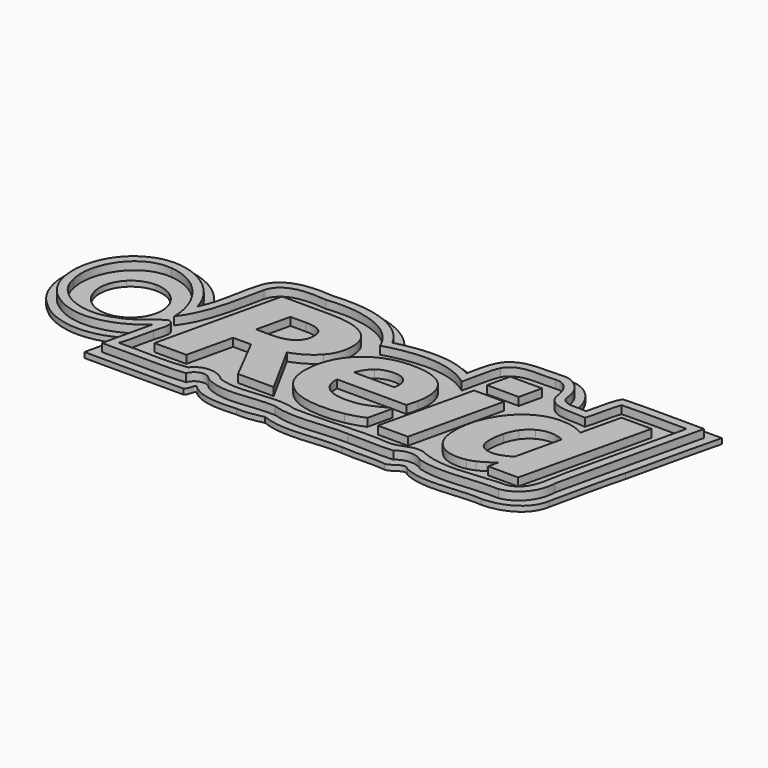
from build123d import *

# Parameters (mm, degrees)
F1_DEPTH = 127
F2_DEPTH = 50.8


with BuildPart() as f1:
    # F0 (on Top) → F1 (new body)
    with BuildSketch(Plane.XY):
        with BuildLine():
            add(Edge.make_bspline(
                [(-252.9550948, 272.1099206), (-252.9550948, 177.3891804), (-281.7946612, 97.749614), (-339.473794, 33.1912214)],
                knots=[0, 0, 0, 0, 1, 1, 1, 1], degree=3))
            add(Edge.make_bspline(
                [(-371.223794, 495.9475222), (-292.378003, 447.2641804), (-252.9550948, 372.651655), (-252.9550948, 272.1099206)],
                knots=[0, 0, 0, 0, 1, 1, 1, 1], degree=3))
            add(Edge.make_bspline(
                [(-706.1863956, 569.7662214), (-561.723794, 569.7662214), (-450.069585, 545.1599968), (-371.223794, 495.9475222)],
                knots=[0, 0, 0, 0, 1, 1, 1, 1], degree=3))
            Line((-706.1863956, 569.7662214), (-1167.3550948, 569.7662214))
            Line((-1167.3550948, 569.7662214), (-1440.4050948, -612.1274778))
            Line((-1440.4050948, -612.1274778), (-1135.6050948, -612.1274778))
            Line((-1135.6050948, -612.1274778), (-1035.5924932, -178.7400794))
            Line((-1035.5924932, -178.7400794), (-864.1424932, -178.7400794))
            Line((-864.1424932, -178.7400794), (-641.8924932, -612.1274778))
            Line((-641.8924932, -612.1274778), (-301.373794, -612.1274778))
            Line((-301.373794, -612.1274778), (-574.423794, -112.8587786))
            add(Edge.make_bspline(
                [(-339.473794, 33.1912214), (-397.1529268, -31.3670442), (-475.469585, -80.050386), (-574.423794, -112.8587786)],
                knots=[0, 0, 0, 0, 1, 1, 1, 1], degree=3))
        make_face()
        with BuildLine():
            add(Edge.make_bspline(
                [(-581.5674932, 221.3099206), (-581.5674932, 268.9349968), (-596.9133604, 302.5370886), (-627.6050948, 322.1162214)],
                knots=[0, 0, 0, 0, 1, 1, 1, 1], degree=3))
            add(Edge.make_bspline(
                [(-648.2424932, 83.1975222), (-603.7924932, 116.5350476), (-581.5674932, 162.5725222), (-581.5674932, 221.3099206)],
                knots=[0, 0, 0, 0, 1, 1, 1, 1], degree=3))
            add(Edge.make_bspline(
                [(-836.3613956, 33.9849206), (-755.398794, 33.9849206), (-692.6924932, 50.3891296), (-648.2424932, 83.1975222)],
                knots=[0, 0, 0, 0, 1, 1, 1, 1], degree=3))
            Line((-836.3613956, 33.9849206), (-986.3800948, 33.9849206))
            Line((-986.3800948, 33.9849206), (-912.5613956, 352.278823))
            Line((-912.5613956, 352.278823), (-761.748794, 352.278823))
            add(Edge.make_bspline(
                [(-627.6050948, 322.1162214), (-657.7675694, 342.224614), (-702.4821358, 352.278823), (-761.748794, 352.278823)],
                knots=[0, 0, 0, 0, 1, 1, 1, 1], degree=3))
        make_face(mode=Mode.SUBTRACT)
    extrude(amount=F1_DEPTH)



with BuildPart() as f1b:
    # F0 (on Top) → F1, piece 2 (new body)
    with BuildSketch(Plane.XY):
        with BuildLine():
            add(Edge.make_bspline(
                [(184.2049148, -635.9400794), (32.3340476, -635.9400794), (-84.876386, -602.3379876), (-167.426386, -535.1337786)],
                knots=[0, 0, 0, 0, 1, 1, 1, 1], degree=3))
            add(Edge.make_bspline(
                [(380.2610124, -616.8900794), (318.8776706, -629.5900794), (253.525655, -635.9400794), (184.2049148, -635.9400794)],
                knots=[0, 0, 0, 0, 1, 1, 1, 1], degree=3))
            add(Edge.make_bspline(
                [(555.6799148, -562.121177), (500.1173132, -586.4629114), (441.6443542, -604.7192122), (380.2610124, -616.8900794)],
                knots=[0, 0, 0, 0, 1, 1, 1, 1], degree=3))
            Line((555.6799148, -562.121177), (608.8610124, -332.7274778))
            Line((608.8610124, -332.7274778), (577.1110124, -332.7274778))
            add(Edge.make_bspline(
                [(431.0610124, -403.371177), (487.1527468, -382.2045188), (535.8360886, -358.6566106), (577.1110124, -332.7274778)],
                knots=[0, 0, 0, 0, 1, 1, 1, 1], degree=3))
            add(Edge.make_bspline(
                [(254.0549148, -435.121177), (316.4965222, -435.121177), (375.4985378, -424.5378352), (431.0610124, -403.371177)],
                knots=[0, 0, 0, 0, 1, 1, 1, 1], degree=3))
            add(Edge.make_bspline(
                [(54.823614, -382.7337786), (98.2152214, -417.6587024), (164.625655, -435.121177), (254.0549148, -435.121177)],
                knots=[0, 0, 0, 0, 1, 1, 1, 1], degree=3))
            add(Edge.make_bspline(
                [(-10.2639876, -237.4774778), (-10.2639876, -299.3899524), (11.4318796, -347.8087024), (54.823614, -382.7337786)],
                knots=[0, 0, 0, 0, 1, 1, 1, 1], degree=3))
            add(Edge.make_bspline(
                [(-10.2639876, -228.746177), (-10.2639876, -231.3921204), (-10.2639876, -234.302554), (-10.2639876, -237.4774778)],
                knots=[0, 0, 0, 0, 1, 1, 1, 1], degree=3))
            add(Edge.make_bspline(
                [(-10.2639876, -219.221177), (-10.2639876, -222.3962532), (-10.2639876, -225.5712532), (-10.2639876, -228.746177)],
                knots=[0, 0, 0, 0, 1, 1, 1, 1], degree=3))
            Line((-10.2639876, -219.221177), (651.723614, -219.221177))
            add(Edge.make_bspline(
                [(679.5049148, -116.8274778), (672.625655, -151.2232688), (663.3652214, -185.3545188), (651.723614, -219.221177)],
                knots=[0, 0, 0, 0, 1, 1, 1, 1], degree=3))
            add(Edge.make_bspline(
                [(690.6173132, -11.2587786), (690.6173132, -47.2421204), (686.9131804, -82.4316868), (679.5049148, -116.8274778)],
                knots=[0, 0, 0, 0, 1, 1, 1, 1], degree=3))
            add(Edge.make_bspline(
                [(589.0173132, 226.0725222), (656.750655, 172.6267312), (690.6173132, 93.5162976), (690.6173132, -11.2587786)],
                knots=[0, 0, 0, 0, 1, 1, 1, 1], degree=3))
            add(Edge.make_bspline(
                [(288.9799148, 307.0349206), (421.800655, 307.0349206), (521.8131042, 280.047446), (589.0173132, 226.0725222)],
                knots=[0, 0, 0, 0, 1, 1, 1, 1], degree=3))
            add(Edge.make_bspline(
                [(48.473614, 263.378823), (121.4985378, 292.4828796), (201.6673132, 307.0349206), (288.9799148, 307.0349206)],
                knots=[0, 0, 0, 0, 1, 1, 1, 1], degree=3))
            add(Edge.make_bspline(
                [(-134.0889876, 145.1099206), (-85.4056458, 194.851655), (-24.5514622, 234.274614), (48.473614, 263.378823)],
                knots=[0, 0, 0, 0, 1, 1, 1, 1], degree=3))
            add(Edge.make_bspline(
                [(-250.7700852, -33.4837786), (-223.7826868, 34.2495632), (-184.8889876, 93.7807878), (-134.0889876, 145.1099206)],
                knots=[0, 0, 0, 0, 1, 1, 1, 1], degree=3))
            add(Edge.make_bspline(
                [(-291.251386, -256.5274778), (-291.251386, -175.5650032), (-277.7576106, -101.2171204), (-250.7700852, -33.4837786)],
                knots=[0, 0, 0, 0, 1, 1, 1, 1], degree=3))
            add(Edge.make_bspline(
                [(-167.426386, -535.1337786), (-249.976386, -467.9295696), (-291.251386, -375.0608196), (-291.251386, -256.5274778)],
                knots=[0, 0, 0, 0, 1, 1, 1, 1], degree=3))
        make_face()
        with BuildLine():
            add(Edge.make_bspline(
                [(402.4860124, -51.7400794), (404.0735378, -42.2150032), (405.1318796, -33.4837024), (405.6610124, -25.546177)],
                knots=[0, 0, 0, 0, 1, 1, 1, 1], degree=3))
            Line((402.4860124, -51.7400794), (402.4854028, -51.7400794))
            Line((402.4854028, -51.7400794), (17.5167036, -51.7400794))
            add(Edge.make_bspline(
                [(108.0043052, 80.8162214), (68.3167798, 49.0662214), (38.154229, 4.8807878), (17.5167036, -51.7400794)],
                knots=[0, 0, 0, 0, 1, 1, 1, 1], degree=3))
            add(Edge.make_bspline(
                [(256.4354028, 128.4412214), (197.6980044, 128.4412214), (148.2209634, 112.5662214), (108.0043052, 80.8162214)],
                knots=[0, 0, 0, 0, 1, 1, 1, 1], degree=3))
            add(Edge.make_bspline(
                [(368.3543052, 95.103823), (342.4250454, 117.3287468), (305.1187446, 128.4412214), (256.4354028, 128.4412214)],
                knots=[0, 0, 0, 0, 1, 1, 1, 1], degree=3))
            add(Edge.make_bspline(
                [(407.2480044, -0.9400794), (407.2480044, 40.8641296), (394.283438, 72.8787468), (368.3543052, 95.103823)],
                knots=[0, 0, 0, 0, 1, 1, 1, 1], degree=3))
            add(Edge.make_bspline(
                [(405.6610124, -25.546177), (406.7189986, -17.6087786), (407.2480044, -9.4067376), (407.2480044, -0.9400794)],
                knots=[0, 0, 0, 0, 1, 1, 1, 1], degree=3))
        make_face(mode=Mode.SUBTRACT)
    extrude(amount=F1_DEPTH)


with BuildPart() as f1c:
    # F0 (on Top) → F1, piece 3 (new body)
    with BuildSketch(Plane.XY):
        Polygon((981.5157916, -612.1274778), (1187.8907916, 279.253823), (900.55319, 279.253823), (694.17819, -612.1274778), align=None)
    extrude(amount=F1_DEPTH)


with BuildPart() as f1d:
    # F0 (on Top) → F1, piece 4 (new body)
    with BuildSketch(Plane.XY):
        Polygon((1225.1970924, 406.253823), (1275.20319, 622.9475222), (971.9907916, 622.9475222), (921.9844908, 406.253823), align=None)
    extrude(amount=F1_DEPTH)


with BuildPart() as f1e:
    # F0 (on Top) → F1, piece 5 (new body)
    with BuildSketch(Plane.XY):
        with BuildLine():
            add(Edge.make_bspline(
                [(1769.3979852, -519.2587786), (1741.881327, -536.7212532), (1717.5396434, -552.5962532), (1696.3729852, -566.8837786)],
                knots=[0, 0, 0, 0, 1, 1, 1, 1], degree=3))
            Line((1769.3979852, -519.2587786), (1747.9668876, -612.1274778))
            Line((1747.9668876, -612.1274778), (2035.304286, -612.1274778))
            Line((2035.304286, -612.1274778), (2321.054286, 622.9475222))
            Line((2321.054286, 622.9475222), (2033.7168876, 622.9475222))
            Line((2033.7168876, 622.9475222), (1945.6105868, 243.5349206))
            add(Edge.make_bspline(
                [(1834.4855868, 288.778823), (1870.4689286, 279.2537468), (1907.5105868, 264.172446), (1945.6105868, 243.5349206)],
                knots=[0, 0, 0, 0, 1, 1, 1, 1], degree=3))
            add(Edge.make_bspline(
                [(1707.4855868, 303.8599206), (1756.1689286, 303.8599206), (1798.502245, 298.8328796), (1834.4855868, 288.778823)],
                knots=[0, 0, 0, 0, 1, 1, 1, 1], degree=3))
            add(Edge.make_bspline(
                [(1508.254286, 254.6475222), (1571.754286, 287.4557878), (1638.1647196, 303.8599206), (1707.4855868, 303.8599206)],
                knots=[0, 0, 0, 0, 1, 1, 1, 1], degree=3))
            add(Edge.make_bspline(
                [(1343.154286, 122.0912214), (1389.7209442, 177.653696), (1444.754286, 221.8391296), (1508.254286, 254.6475222)],
                knots=[0, 0, 0, 0, 1, 1, 1, 1], degree=3))
            add(Edge.make_bspline(
                [(1230.4418876, -75.5524778), (1257.9585458, -0.9400032), (1295.5293622, 64.9412214), (1343.154286, 122.0912214)],
                knots=[0, 0, 0, 0, 1, 1, 1, 1], degree=3))
            add(Edge.make_bspline(
                [(1189.9605868, -313.6774778), (1189.9605868, -229.0108196), (1203.4543622, -149.6358196), (1230.4418876, -75.5524778)],
                knots=[0, 0, 0, 0, 1, 1, 1, 1], degree=3))
            add(Edge.make_bspline(
                [(1266.954286, -552.596177), (1215.6251532, -496.5045696), (1189.9605868, -416.8650032), (1189.9605868, -313.6774778)],
                knots=[0, 0, 0, 0, 1, 1, 1, 1], degree=3))
            add(Edge.make_bspline(
                [(1474.1229852, -636.7337786), (1387.8689286, -636.7337786), (1318.8126786, -608.6879114), (1266.954286, -552.596177)],
                knots=[0, 0, 0, 0, 1, 1, 1, 1], degree=3))
            add(Edge.make_bspline(
                [(1556.6729852, -628.796177), (1533.9189286, -634.0879114), (1506.402245, -636.7337786), (1474.1229852, -636.7337786)],
                knots=[0, 0, 0, 0, 1, 1, 1, 1], degree=3))
            add(Edge.make_bspline(
                [(1627.3168876, -604.9837786), (1603.504286, -615.5671204), (1579.956327, -623.5045696), (1556.6729852, -628.796177)],
                knots=[0, 0, 0, 0, 1, 1, 1, 1], degree=3))
            add(Edge.make_bspline(
                [(1696.3729852, -566.8837786), (1675.7355868, -580.6420442), (1652.7168876, -593.3420442), (1627.3168876, -604.9837786)],
                knots=[0, 0, 0, 0, 1, 1, 1, 1], degree=3))
        make_face()
        with BuildLine():
            add(Edge.make_bspline(
                [(1905.9229852, 71.2912214), (1890.5771942, 78.699614), (1870.4688524, 85.3141804), (1845.5979852, 91.1349206)],
                knots=[0, 0, 0, 0, 1, 1, 1, 1], degree=3))
            Line((1905.9229852, 71.2912214), (1805.1168876, -366.0650794))
            add(Edge.make_bspline(
                [(1722.5668876, -407.3400794), (1751.6709442, -395.698345), (1779.1876278, -381.9400032), (1805.1168876, -366.0650794)],
                knots=[0, 0, 0, 0, 1, 1, 1, 1], degree=3))
            add(Edge.make_bspline(
                [(1640.8105868, -424.8024778), (1666.7397196, -424.8024778), (1693.9918114, -418.9816868), (1722.5668876, -407.3400794)],
                knots=[0, 0, 0, 0, 1, 1, 1, 1], degree=3))
            add(Edge.make_bspline(
                [(1527.304286, -388.2900794), (1552.1751532, -412.6316868), (1590.0105868, -424.8024778), (1640.8105868, -424.8024778)],
                knots=[0, 0, 0, 0, 1, 1, 1, 1], degree=3))
            add(Edge.make_bspline(
                [(1489.9979852, -271.6087786), (1489.9979852, -325.0545696), (1502.4334188, -363.948345), (1527.304286, -388.2900794)],
                knots=[0, 0, 0, 0, 1, 1, 1, 1], degree=3))
            add(Edge.make_bspline(
                [(1509.8418876, -131.9087786), (1496.6126278, -180.0629876), (1489.9979852, -226.6296458), (1489.9979852, -271.6087786)],
                knots=[0, 0, 0, 0, 1, 1, 1, 1], degree=3))
            add(Edge.make_bspline(
                [(1563.8168876, -12.0524778), (1541.0626786, -43.273345), (1523.0710204, -83.2254368), (1509.8418876, -131.9087786)],
                knots=[0, 0, 0, 0, 1, 1, 1, 1], degree=3))
            add(Edge.make_bspline(
                [(1656.6855868, 70.4975222), (1620.1731122, 50.3891296), (1589.2168876, 22.872446), (1563.8168876, -12.0524778)],
                knots=[0, 0, 0, 0, 1, 1, 1, 1], degree=3))
            add(Edge.make_bspline(
                [(1779.7168876, 100.6599206), (1734.208495, 100.6599206), (1693.1980614, 90.6057878), (1656.6855868, 70.4975222)],
                knots=[0, 0, 0, 0, 1, 1, 1, 1], degree=3))
            add(Edge.make_bspline(
                [(1845.5979852, 91.1349206), (1820.727245, 97.4849206), (1798.7668876, 100.6599206), (1779.7168876, 100.6599206)],
                knots=[0, 0, 0, 0, 1, 1, 1, 1], degree=3))
        make_face(mode=Mode.SUBTRACT)
    extrude(amount=F1_DEPTH)


with BuildPart() as f1f:
    # F0 (on Top) → F1, piece 6 (new body)
    with BuildSketch(Plane.XY):
        with BuildLine():
            add(Edge.make_bspline(
                [(1511.8568188, 639.2069766), (1506.6878172, 758.1173814), (1400.7673788, 882.506871), (1275.5971948, 877.8875254)],
                knots=[0, 0, 0, 0, 1, 1, 1, 1], degree=3))
            add(Edge.make_bspline(
                [(1275.5971948, 877.8875254), (1106.3161516, 862.6526054), (866.64419, 911.858095), (763.0727436, 737.5525254)],
                knots=[0, 0, 0, 0, 1, 1, 1, 1], degree=3))
            add(Edge.make_bspline(
                [(763.0727436, 737.5525254), (718.142582, 651.416655), (704.4229244, 553.888783), (683.5390444, 460.1766006)],
                knots=[0, 0, 0, 0, 1, 1, 1, 1], degree=3))
            add(Edge.make_bspline(
                [(683.5390444, 460.1766006), (457.4392172, 589.4109878), (182.4324012, 561.682519), (-57.2281812, 501.015127)],
                knots=[0, 0, 0, 0, 1, 1, 1, 1], degree=3))
            add(Edge.make_bspline(
                [(-57.2281812, 501.015127), (-211.3072228, 790.8203894), (-579.8831684, 840.8657046), (-874.39373, 814.1495782)],
                knots=[0, 0, 0, 0, 1, 1, 1, 1], degree=3))
            add(Edge.make_bspline(
                [(-874.39373, 814.1495782), (-1062.7548468, 833.9341462), (-1342.8934788, 826.7810998), (-1410.0955796, 608.5284502)],
                knots=[0, 0, 0, 0, 1, 1, 1, 1], degree=3))
            add(Edge.make_bspline(
                [(-1410.0955796, 608.5284502), (-1468.7762852, 424.1429414), (-1469.3027764, 223.6863446), (-1559.4000308, 48.5775254)],
                knots=[0, 0, 0, 0, 1, 1, 1, 1], degree=3))
            add(Edge.make_bspline(
                [(-1559.4000308, 48.5775254), (-1645.798842, 382.1971782), (-2060.021026, 614.1733462), (-2371.049106, 431.8795782)],
                knots=[0, 0, 0, 0, 1, 1, 1, 1], degree=3))
            add(Edge.make_bspline(
                [(-2371.049106, 431.8795782), (-2704.9154436, 251.3979478), (-2762.4568068, -308.244113), (-2417.3642788, -507.960249)],
                knots=[0, 0, 0, 0, 1, 1, 1, 1], degree=3))
            add(Edge.make_bspline(
                [(-2417.3642788, -507.960249), (-2173.6699732, -666.4914026), (-1843.3791428, -575.3045898), (-1639.0924292, -388.1435722)],
                knots=[0, 0, 0, 0, 1, 1, 1, 1], degree=3))
            add(Edge.make_bspline(
                [(-1639.0924292, -388.1435722), (-1675.0846356, -544.0371898), (-1711.0855796, -699.9285722), (-1747.0822564, -855.8211738)],
                knots=[0, 0, 0, 0, 1, 1, 1, 1], degree=3))
            add(Edge.make_bspline(
                [(-1747.0822564, -855.8211738), (-1483.5206804, -848.9973114), (-1203.7782884, -870.659041), (-950.4746548, -844.9070986)],
                knots=[0, 0, 0, 0, 1, 1, 1, 1], degree=3))
            add(Edge.make_bspline(
                [(-950.4746548, -844.9070986), (-925.5968788, -767.0469546), (-816.347618, -739.023033), (-766.1659556, -809.3470986)],
                knots=[0, 0, 0, 0, 1, 1, 1, 1], degree=3))
            add(Edge.make_bspline(
                [(-766.1659556, -809.3470986), (-561.38445, -928.1217658), (-323.0314596, -830.8507386), (-103.9800308, -844.1530234)],
                knots=[0, 0, 0, 0, 1, 1, 1, 1], degree=3))
            add(Edge.make_bspline(
                [(-103.9800308, -844.1530234), (127.571246, -917.6260794), (368.3902716, -845.0572634), (605.394014, -855.2268138)],
                knots=[0, 0, 0, 0, 1, 1, 1, 1], degree=3))
            add(Edge.make_bspline(
                [(605.394014, -855.2268138), (749.6026156, -851.2449066), (894.8835036, -867.0524442), (1037.551646, -855.7815498)],
                knots=[0, 0, 0, 0, 1, 1, 1, 1], degree=3))
            add(Edge.make_bspline(
                [(1037.551646, -855.7815498), (1105.7599932, -791.6319194), (1212.6251084, -790.1859482), (1284.3284956, -847.3280234)],
                knots=[0, 0, 0, 0, 1, 1, 1, 1], degree=3))
            add(Edge.make_bspline(
                [(1284.3284956, -847.3280234), (1531.3879964, -915.5952986), (1785.9719932, -841.679673), (2036.7240444, -850.860249)],
                knots=[0, 0, 0, 0, 1, 1, 1, 1], degree=3))
            add(Edge.make_bspline(
                [(2036.7240444, -850.860249), (2199.2427948, -827.2146778), (2308.8761036, -674.6019274), (2309.2613708, -515.846441)],
                knots=[0, 0, 0, 0, 1, 1, 1, 1], degree=3))
            add(Edge.make_bspline(
                [(2309.2613708, -515.846441), (2408.7098892, -54.022625), (2522.940598, 408.2470118), (2628.6234956, 866.100503)],
                knots=[0, 0, 0, 0, 1, 1, 1, 1], degree=3))
            add(Edge.make_bspline(
                [(2628.6234956, 866.100503), (2370.6700364, 863.7543558), (2110.9178508, 874.464215), (1854.5186684, 861.020503)],
                knots=[0, 0, 0, 0, 1, 1, 1, 1], degree=3))
            add(Edge.make_bspline(
                [(1854.5186684, 861.020503), (1802.0432844, 761.4498614), (1792.2311628, 647.4873766), (1761.9277436, 540.5438262)],
                knots=[0, 0, 0, 0, 1, 1, 1, 1], degree=3))
            add(Edge.make_bspline(
                [(1761.9277436, 540.5438262), (1678.0032988, 551.8632854), (1518.4116444, 508.342519), (1511.8568188, 639.2069766)],
                knots=[0, 0, 0, 0, 1, 1, 1, 1], degree=3))
        make_face()
        with BuildLine():
            add(Edge.make_bspline(
                [(1265.595894, 795.3773526), (1119.6836636, 780.298287), (920.205678, 833.6175606), (827.9221948, 685.2842022)],
                knots=[0, 0, 0, 0, 1, 1, 1, 1], degree=3))
            add(Edge.make_bspline(
                [(1439.3081196, 585.7479014), (1434.8962412, 682.2910662), (1382.1705148, 805.7001158), (1265.595894, 795.3773526)],
                knots=[0, 0, 0, 0, 1, 1, 1, 1], degree=3))
            add(Edge.make_bspline(
                [(1821.141646, 451.524751), (1692.5138108, 471.9288758), (1492.6347084, 423.2450006), (1439.3081196, 585.7479014)],
                knots=[0, 0, 0, 0, 1, 1, 1, 1], degree=3))
            add(Edge.make_bspline(
                [(1908.215894, 782.0819766), (1868.3059916, 674.9535142), (1858.0521132, 559.643407), (1821.141646, 451.524751)],
                knots=[0, 0, 0, 0, 1, 1, 1, 1], degree=3))
            add(Edge.make_bspline(
                [(2526.2295932, 784.6219766), (2320.3621868, 784.6016566), (2112.7238924, 790.4930342), (1908.215894, 782.0819766)],
                knots=[0, 0, 0, 0, 1, 1, 1, 1], degree=3))
            add(Edge.make_bspline(
                [(2266.3313068, -332.4141434), (2349.2312172, 40.7856182), (2439.5881612, 412.2697622), (2526.2295932, 784.6219766)],
                knots=[0, 0, 0, 0, 1, 1, 1, 1], degree=3))
            add(Edge.make_bspline(
                [(2046.3463772, -762.371729), (2239.970374, -720.3755722), (2228.9278764, -483.918641), (2266.3313068, -332.4141434)],
                knots=[0, 0, 0, 0, 1, 1, 1, 1], degree=3))
            add(Edge.make_bspline(
                [(1242.9344204, -738.8224746), (1497.1103916, -851.727913), (1779.8318988, -764.129409), (2046.3463772, -762.371729)],
                knots=[0, 0, 0, 0, 1, 1, 1, 1], degree=3))
            add(Edge.make_bspline(
                [(936.7849692, -779.5020986), (1040.968454, -777.5818586), (1135.7291484, -685.3627898), (1242.9344204, -738.8224746)],
                knots=[0, 0, 0, 0, 1, 1, 1, 1], degree=3))
            add(Edge.make_bspline(
                [(39.8077436, -790.1383994), (338.0892908, -801.471473), (638.1354268, -751.7035258), (936.7849692, -779.5020986)],
                knots=[0, 0, 0, 0, 1, 1, 1, 1], degree=3))
            add(Edge.make_bspline(
                [(-690.0850308, -756.3643242), (-452.989442, -842.842993), (-200.1523556, -708.6312218), (39.8077436, -790.1383994)],
                knots=[0, 0, 0, 0, 1, 1, 1, 1], degree=3))
            add(Edge.make_bspline(
                [(-997.0678052, -761.1665498), (-923.5839796, -661.4811002), (-769.9979012, -672.7664218), (-690.0850308, -756.3643242)],
                knots=[0, 0, 0, 0, 1, 1, 1, 1], degree=3))
            add(Edge.make_bspline(
                [(-1649.689106, -775.7715498), (-1431.5545156, -763.5580106), (-1208.9537924, -795.6837274), (-997.0678052, -761.1665498)],
                knots=[0, 0, 0, 0, 1, 1, 1, 1], degree=3))
            add(Edge.make_bspline(
                [(-1571.4252036, -456.564873), (-1598.3044996, -560.9361146), (-1612.7926596, -671.1885738), (-1649.689106, -775.7715498)],
                knots=[0, 0, 0, 0, 1, 1, 1, 1], degree=3))
            add(Edge.make_bspline(
                [(-1596.984106, -256.7780234), (-1494.7163908, -264.0818442), (-1558.2172036, -399.798921), (-1571.4252036, -456.564873)],
                knots=[0, 0, 0, 0, 1, 1, 1, 1], degree=3))
            add(Edge.make_bspline(
                [(-1920.0800308, -466.4470986), (-1792.6734276, -429.3470458), (-1701.86477, -325.4919322), (-1596.984106, -256.7780234)],
                knots=[0, 0, 0, 0, 1, 1, 1, 1], degree=3))
            add(Edge.make_bspline(
                [(-2557.77873, -180.300249), (-2507.1030884, -461.5014138), (-2161.8380436, -579.7156554), (-1920.0800308, -466.4470986)],
                knots=[0, 0, 0, 0, 1, 1, 1, 1], degree=3))
            add(Edge.make_bspline(
                [(-2099.0309556, 413.0675254), (-2409.1844628, 446.9838406), (-2626.928706, 99.8503718), (-2557.77873, -180.300249)],
                knots=[0, 0, 0, 0, 1, 1, 1, 1], degree=3))
            add(Edge.make_bspline(
                [(-1595.1981812, -183.9911738), (-1593.3002932, 100.6142006), (-1803.636474, 390.0439494), (-2099.0309556, 413.0675254)],
                knots=[0, 0, 0, 0, 1, 1, 1, 1], degree=3))
            add(Edge.make_bspline(
                [(-1337.1896548, 568.999751), (-1395.9622068, 310.3025798), (-1430.0292964, 34.421191), (-1595.1981812, -183.9911738)],
                knots=[0, 0, 0, 0, 1, 1, 1, 1], degree=3))
            add(Edge.make_bspline(
                [(-878.7592788, 732.9092022), (-1033.4834804, 749.9257798), (-1283.0567684, 757.4063846), (-1337.1896548, 568.999751)],
                knots=[0, 0, 0, 0, 1, 1, 1, 1], degree=3))
            add(Edge.make_bspline(
                [(-99.7731812, 406.3206758), (-220.1084244, 708.2112582), (-594.4721156, 765.4947606), (-878.7592788, 732.9092022)],
                knots=[0, 0, 0, 0, 1, 1, 1, 1], degree=3))
            add(Edge.make_bspline(
                [(738.7444204, 333.375127), (498.3159452, 517.5493078), (171.6975484, 486.8902886), (-99.7731812, 406.3206758)],
                knots=[0, 0, 0, 0, 1, 1, 1, 1], degree=3))
            add(Edge.make_bspline(
                [(827.9221948, 685.2842022), (779.250918, 573.5262342), (770.2347308, 450.1759094), (738.7444204, 333.375127)],
                knots=[0, 0, 0, 0, 1, 1, 1, 1], degree=3))
        make_face(mode=Mode.SUBTRACT)
    extrude(amount=F1_DEPTH)


with BuildPart() as f1_1:
    add(f1.part)

    add(f1b.part)  # F2 merges F1b

    add(f1c.part)  # F2 merges F1c

    add(f1d.part)  # F2 merges F1d

    add(f1e.part)  # F2 merges F1e

    add(f1f.part)  # F2 merges F1f
    # F0 (on Top) → F2 (join)
    with BuildSketch(Plane.XY):
        with BuildLine():
            add(Edge.make_bspline(
                [(1594.3671948, 658.6757718), (1571.7961452, 815.675407), (1442.79747, 963.3678726), (1275.3194204, 959.3085462)],
                knots=[0, 0, 0, 0, 1, 1, 1, 1], degree=3))
            add(Edge.make_bspline(
                [(1275.3194204, 959.3085462), (1083.3628828, 943.5040566), (823.116718, 989.532311), (703.2636684, 795.994471)],
                knots=[0, 0, 0, 0, 1, 1, 1, 1], degree=3))
            add(Edge.make_bspline(
                [(703.2636684, 795.994471), (662.64663, 728.4089318), (640.5837836, 651.631031), (624.9207212, 574.895599)],
                knots=[0, 0, 0, 0, 1, 1, 1, 1], degree=3))
            add(Edge.make_bspline(
                [(624.9207212, 574.895599), (421.5110188, 662.451431), (190.6296924, 638.724783), (-19.088354, 592.5166966)],
                knots=[0, 0, 0, 0, 1, 1, 1, 1], degree=3))
            add(Edge.make_bspline(
                [(-19.088354, 592.5166966), (-194.2181028, 863.0935494), (-550.4151044, 919.6581302), (-848.5174292, 894.0624486)],
                knots=[0, 0, 0, 0, 1, 1, 1, 1], degree=3))
            add(Edge.make_bspline(
                [(-848.5174292, 894.0624486), (-1053.233098, 906.0888406), (-1321.9216132, 920.8773302), (-1445.4968804, 720.6676214)],
                knots=[0, 0, 0, 0, 1, 1, 1, 1], degree=3))
            add(Edge.make_bspline(
                [(-1445.4968804, 720.6676214), (-1533.7893124, 583.0091718), (-1529.508498, 384.095879), (-1571.9809556, 255.4507718)],
                knots=[0, 0, 0, 0, 1, 1, 1, 1], degree=3))
            add(Edge.make_bspline(
                [(-1571.9809556, 255.4507718), (-1741.7868644, 558.0931942), (-2184.3328932, 688.0914102), (-2467.5292788, 463.849847)],
                knots=[0, 0, 0, 0, 1, 1, 1, 1], degree=3))
            add(Edge.make_bspline(
                [(-2467.5292788, 463.849847), (-2773.8319428, 245.5130726), (-2840.2649316, -268.5951194), (-2536.4268804, -518.1775514)],
                knots=[0, 0, 0, 0, 1, 1, 1, 1], degree=3))
            add(Edge.make_bspline(
                [(-2536.4268804, -518.1775514), (-2330.1140596, -709.1493818), (-1997.1426148, -715.5593258), (-1764.3859556, -569.4934762)],
                knots=[0, 0, 0, 0, 1, 1, 1, 1], degree=3))
            add(Edge.make_bspline(
                [(-1764.3859556, -569.4934762), (-1792.7102068, -692.0881002), (-1821.0289716, -814.6839434), (-1849.3568804, -937.2775514)],
                knots=[0, 0, 0, 0, 1, 1, 1, 1], degree=3))
            Line((-1849.3568804, -937.2775514), (-904.4768804, -937.2775514))
            add(Edge.make_bspline(
                [(-904.4768804, -937.2775514), (-863.917754, -918.2206426), (-877.3937748, -807.2354442), (-830.6581812, -863.6970026)],
                knots=[0, 0, 0, 0, 1, 1, 1, 1], degree=3))
            add(Edge.make_bspline(
                [(-830.6581812, -863.6970026), (-706.3294484, -962.684257), (-541.7965796, -950.3867962), (-394.6909556, -941.7225514)],
                knots=[0, 0, 0, 0, 1, 1, 1, 1], degree=3))
            add(Edge.make_bspline(
                [(-394.6909556, -941.7225514), (-308.9108884, -950.6184442), (-220.4115988, -931.5410122), (-140.1750308, -914.0207018)],
                knots=[0, 0, 0, 0, 1, 1, 1, 1], degree=3))
            add(Edge.make_bspline(
                [(-140.1750308, -914.0207018), (102.74427, -1009.5488826), (364.6509852, -922.0251562), (613.1334956, -936.7220026)],
                knots=[0, 0, 0, 0, 1, 1, 1, 1], degree=3))
            add(Edge.make_bspline(
                [(613.1334956, -936.7220026), (751.7768556, -950.3668826), (892.9563548, -929.3425914), (1030.1695932, -947.9138522)],
                knots=[0, 0, 0, 0, 1, 1, 1, 1], degree=3))
            add(Edge.make_bspline(
                [(1030.1695932, -947.9138522), (1095.8665916, -941.068857), (1149.7979036, -839.3386058), (1211.9781196, -906.8373786)],
                knots=[0, 0, 0, 0, 1, 1, 1, 1], degree=3))
            add(Edge.make_bspline(
                [(1211.9781196, -906.8373786), (1445.3175564, -1012.100465), (1703.9232876, -919.9708042), (1948.1018188, -940.095529)],
                knots=[0, 0, 0, 0, 1, 1, 1, 1], degree=3))
            add(Edge.make_bspline(
                [(1948.1018188, -940.095529), (2126.8698636, -937.9489242), (2328.8984156, -846.1065882), (2362.3599692, -652.3610778)],
                knots=[0, 0, 0, 0, 1, 1, 1, 1], degree=3))
            add(Edge.make_bspline(
                [(2362.3599692, -652.3610778), (2415.6554684, -415.7352874), (2460.553118, -177.6478794), (2524.6025708, 56.5370726)],
                knots=[0, 0, 0, 0, 1, 1, 1, 1], degree=3))
            add(Edge.make_bspline(
                [(2524.6025708, 56.5370726), (2592.9224748, 354.0241078), (2658.095014, 652.809591), (2733.5175708, 948.0374486)],
                knots=[0, 0, 0, 0, 1, 1, 1, 1], degree=3))
            Line((2733.5175708, 948.0374486), (1814.19627, 948.0374486))
            add(Edge.make_bspline(
                [(1814.19627, 948.0374486), (1743.9677084, 856.849823), (1726.5498108, 740.132759), (1700.2534956, 631.410599)],
                knots=[0, 0, 0, 0, 1, 1, 1, 1], degree=3))
            add(Edge.make_bspline(
                [(1700.2534956, 631.410599), (1660.4289372, 640.1894486), (1581.9260716, 587.3036006), (1594.3671948, 658.6757718)],
                knots=[0, 0, 0, 0, 1, 1, 1, 1], degree=3))
        make_face()
        with BuildLine():
            add(Edge.make_bspline(
                [(1275.5971948, 877.8875254), (1106.3161516, 862.6526054), (866.64419, 911.858095), (763.0727436, 737.5525254)],
                knots=[0, 0, 0, 0, 1, 1, 1, 1], degree=3))
            add(Edge.make_bspline(
                [(1511.8568188, 639.2069766), (1506.6878172, 758.1173814), (1400.7673788, 882.506871), (1275.5971948, 877.8875254)],
                knots=[0, 0, 0, 0, 1, 1, 1, 1], degree=3))
            add(Edge.make_bspline(
                [(1761.9277436, 540.5438262), (1678.0032988, 551.8632854), (1518.4116444, 508.342519), (1511.8568188, 639.2069766)],
                knots=[0, 0, 0, 0, 1, 1, 1, 1], degree=3))
            add(Edge.make_bspline(
                [(1854.5186684, 861.020503), (1802.0432844, 761.4498614), (1792.2311628, 647.4873766), (1761.9277436, 540.5438262)],
                knots=[0, 0, 0, 0, 1, 1, 1, 1], degree=3))
            add(Edge.make_bspline(
                [(2628.6234956, 866.100503), (2370.6700364, 863.7543558), (2110.9178508, 874.464215), (1854.5186684, 861.020503)],
                knots=[0, 0, 0, 0, 1, 1, 1, 1], degree=3))
            add(Edge.make_bspline(
                [(2309.2613708, -515.846441), (2408.7098892, -54.022625), (2522.940598, 408.2470118), (2628.6234956, 866.100503)],
                knots=[0, 0, 0, 0, 1, 1, 1, 1], degree=3))
            add(Edge.make_bspline(
                [(2036.7240444, -850.860249), (2199.2427948, -827.2146778), (2308.8761036, -674.6019274), (2309.2613708, -515.846441)],
                knots=[0, 0, 0, 0, 1, 1, 1, 1], degree=3))
            add(Edge.make_bspline(
                [(1284.3284956, -847.3280234), (1531.3879964, -915.5952986), (1785.9719932, -841.679673), (2036.7240444, -850.860249)],
                knots=[0, 0, 0, 0, 1, 1, 1, 1], degree=3))
            add(Edge.make_bspline(
                [(1037.551646, -855.7815498), (1105.7599932, -791.6319194), (1212.6251084, -790.1859482), (1284.3284956, -847.3280234)],
                knots=[0, 0, 0, 0, 1, 1, 1, 1], degree=3))
            add(Edge.make_bspline(
                [(605.394014, -855.2268138), (749.6026156, -851.2449066), (894.8835036, -867.0524442), (1037.551646, -855.7815498)],
                knots=[0, 0, 0, 0, 1, 1, 1, 1], degree=3))
            add(Edge.make_bspline(
                [(-103.9800308, -844.1530234), (127.571246, -917.6260794), (368.3902716, -845.0572634), (605.394014, -855.2268138)],
                knots=[0, 0, 0, 0, 1, 1, 1, 1], degree=3))
            add(Edge.make_bspline(
                [(-766.1659556, -809.3470986), (-561.38445, -928.1217658), (-323.0314596, -830.8507386), (-103.9800308, -844.1530234)],
                knots=[0, 0, 0, 0, 1, 1, 1, 1], degree=3))
            add(Edge.make_bspline(
                [(-950.4746548, -844.9070986), (-925.5968788, -767.0469546), (-816.347618, -739.023033), (-766.1659556, -809.3470986)],
                knots=[0, 0, 0, 0, 1, 1, 1, 1], degree=3))
            add(Edge.make_bspline(
                [(-1747.0822564, -855.8211738), (-1483.5206804, -848.9973114), (-1203.7782884, -870.659041), (-950.4746548, -844.9070986)],
                knots=[0, 0, 0, 0, 1, 1, 1, 1], degree=3))
            add(Edge.make_bspline(
                [(-1639.0924292, -388.1435722), (-1675.0846356, -544.0371898), (-1711.0855796, -699.9285722), (-1747.0822564, -855.8211738)],
                knots=[0, 0, 0, 0, 1, 1, 1, 1], degree=3))
            add(Edge.make_bspline(
                [(-2417.3642788, -507.960249), (-2173.6699732, -666.4914026), (-1843.3791428, -575.3045898), (-1639.0924292, -388.1435722)],
                knots=[0, 0, 0, 0, 1, 1, 1, 1], degree=3))
            add(Edge.make_bspline(
                [(-2371.049106, 431.8795782), (-2704.9154436, 251.3979478), (-2762.4568068, -308.244113), (-2417.3642788, -507.960249)],
                knots=[0, 0, 0, 0, 1, 1, 1, 1], degree=3))
            add(Edge.make_bspline(
                [(-1559.4000308, 48.5775254), (-1645.798842, 382.1971782), (-2060.021026, 614.1733462), (-2371.049106, 431.8795782)],
                knots=[0, 0, 0, 0, 1, 1, 1, 1], degree=3))
            add(Edge.make_bspline(
                [(-1410.0955796, 608.5284502), (-1468.7762852, 424.1429414), (-1469.3027764, 223.6863446), (-1559.4000308, 48.5775254)],
                knots=[0, 0, 0, 0, 1, 1, 1, 1], degree=3))
            add(Edge.make_bspline(
                [(-874.39373, 814.1495782), (-1062.7548468, 833.9341462), (-1342.8934788, 826.7810998), (-1410.0955796, 608.5284502)],
                knots=[0, 0, 0, 0, 1, 1, 1, 1], degree=3))
            add(Edge.make_bspline(
                [(-57.2281812, 501.015127), (-211.3072228, 790.8203894), (-579.8831684, 840.8657046), (-874.39373, 814.1495782)],
                knots=[0, 0, 0, 0, 1, 1, 1, 1], degree=3))
            add(Edge.make_bspline(
                [(683.5390444, 460.1766006), (457.4392172, 589.4109878), (182.4324012, 561.682519), (-57.2281812, 501.015127)],
                knots=[0, 0, 0, 0, 1, 1, 1, 1], degree=3))
            add(Edge.make_bspline(
                [(763.0727436, 737.5525254), (718.142582, 651.416655), (704.4229244, 553.888783), (683.5390444, 460.1766006)],
                knots=[0, 0, 0, 0, 1, 1, 1, 1], degree=3))
        make_face(mode=Mode.SUBTRACT)
        with BuildLine():
            add(Edge.make_bspline(
                [(1439.3081196, 585.7479014), (1434.8962412, 682.2910662), (1382.1705148, 805.7001158), (1265.595894, 795.3773526)],
                knots=[0, 0, 0, 0, 1, 1, 1, 1], degree=3))
            add(Edge.make_bspline(
                [(1265.595894, 795.3773526), (1119.6836636, 780.298287), (920.205678, 833.6175606), (827.9221948, 685.2842022)],
                knots=[0, 0, 0, 0, 1, 1, 1, 1], degree=3))
            add(Edge.make_bspline(
                [(827.9221948, 685.2842022), (779.250918, 573.5262342), (770.2347308, 450.1759094), (738.7444204, 333.375127)],
                knots=[0, 0, 0, 0, 1, 1, 1, 1], degree=3))
            add(Edge.make_bspline(
                [(738.7444204, 333.375127), (498.3159452, 517.5493078), (171.6975484, 486.8902886), (-99.7731812, 406.3206758)],
                knots=[0, 0, 0, 0, 1, 1, 1, 1], degree=3))
            add(Edge.make_bspline(
                [(-99.7731812, 406.3206758), (-220.1084244, 708.2112582), (-594.4721156, 765.4947606), (-878.7592788, 732.9092022)],
                knots=[0, 0, 0, 0, 1, 1, 1, 1], degree=3))
            add(Edge.make_bspline(
                [(-878.7592788, 732.9092022), (-1033.4834804, 749.9257798), (-1283.0567684, 757.4063846), (-1337.1896548, 568.999751)],
                knots=[0, 0, 0, 0, 1, 1, 1, 1], degree=3))
            add(Edge.make_bspline(
                [(-1337.1896548, 568.999751), (-1395.9622068, 310.3025798), (-1430.0292964, 34.421191), (-1595.1981812, -183.9911738)],
                knots=[0, 0, 0, 0, 1, 1, 1, 1], degree=3))
            add(Edge.make_bspline(
                [(-1595.1981812, -183.9911738), (-1593.3002932, 100.6142006), (-1803.636474, 390.0439494), (-2099.0309556, 413.0675254)],
                knots=[0, 0, 0, 0, 1, 1, 1, 1], degree=3))
            add(Edge.make_bspline(
                [(-2099.0309556, 413.0675254), (-2409.1844628, 446.9838406), (-2626.928706, 99.8503718), (-2557.77873, -180.300249)],
                knots=[0, 0, 0, 0, 1, 1, 1, 1], degree=3))
            add(Edge.make_bspline(
                [(-2557.77873, -180.300249), (-2507.1030884, -461.5014138), (-2161.8380436, -579.7156554), (-1920.0800308, -466.4470986)],
                knots=[0, 0, 0, 0, 1, 1, 1, 1], degree=3))
            add(Edge.make_bspline(
                [(-1920.0800308, -466.4470986), (-1792.6734276, -429.3470458), (-1701.86477, -325.4919322), (-1596.984106, -256.7780234)],
                knots=[0, 0, 0, 0, 1, 1, 1, 1], degree=3))
            add(Edge.make_bspline(
                [(-1596.984106, -256.7780234), (-1494.7163908, -264.0818442), (-1558.2172036, -399.798921), (-1571.4252036, -456.564873)],
                knots=[0, 0, 0, 0, 1, 1, 1, 1], degree=3))
            add(Edge.make_bspline(
                [(-1571.4252036, -456.564873), (-1598.3044996, -560.9361146), (-1612.7926596, -671.1885738), (-1649.689106, -775.7715498)],
                knots=[0, 0, 0, 0, 1, 1, 1, 1], degree=3))
            add(Edge.make_bspline(
                [(-1649.689106, -775.7715498), (-1431.5545156, -763.5580106), (-1208.9537924, -795.6837274), (-997.0678052, -761.1665498)],
                knots=[0, 0, 0, 0, 1, 1, 1, 1], degree=3))
            add(Edge.make_bspline(
                [(-997.0678052, -761.1665498), (-923.5839796, -661.4811002), (-769.9979012, -672.7664218), (-690.0850308, -756.3643242)],
                knots=[0, 0, 0, 0, 1, 1, 1, 1], degree=3))
            add(Edge.make_bspline(
                [(-690.0850308, -756.3643242), (-452.989442, -842.842993), (-200.1523556, -708.6312218), (39.8077436, -790.1383994)],
                knots=[0, 0, 0, 0, 1, 1, 1, 1], degree=3))
            add(Edge.make_bspline(
                [(39.8077436, -790.1383994), (338.0892908, -801.471473), (638.1354268, -751.7035258), (936.7849692, -779.5020986)],
                knots=[0, 0, 0, 0, 1, 1, 1, 1], degree=3))
            add(Edge.make_bspline(
                [(936.7849692, -779.5020986), (1040.968454, -777.5818586), (1135.7291484, -685.3627898), (1242.9344204, -738.8224746)],
                knots=[0, 0, 0, 0, 1, 1, 1, 1], degree=3))
            add(Edge.make_bspline(
                [(1242.9344204, -738.8224746), (1497.1103916, -851.727913), (1779.8318988, -764.129409), (2046.3463772, -762.371729)],
                knots=[0, 0, 0, 0, 1, 1, 1, 1], degree=3))
            add(Edge.make_bspline(
                [(2046.3463772, -762.371729), (2239.970374, -720.3755722), (2228.9278764, -483.918641), (2266.3313068, -332.4141434)],
                knots=[0, 0, 0, 0, 1, 1, 1, 1], degree=3))
            add(Edge.make_bspline(
                [(2266.3313068, -332.4141434), (2349.2312172, 40.7856182), (2439.5881612, 412.2697622), (2526.2295932, 784.6219766)],
                knots=[0, 0, 0, 0, 1, 1, 1, 1], degree=3))
            add(Edge.make_bspline(
                [(2526.2295932, 784.6219766), (2320.3621868, 784.6016566), (2112.7238924, 790.4930342), (1908.215894, 782.0819766)],
                knots=[0, 0, 0, 0, 1, 1, 1, 1], degree=3))
            add(Edge.make_bspline(
                [(1908.215894, 782.0819766), (1868.3059916, 674.9535142), (1858.0521132, 559.643407), (1821.141646, 451.524751)],
                knots=[0, 0, 0, 0, 1, 1, 1, 1], degree=3))
            add(Edge.make_bspline(
                [(1821.141646, 451.524751), (1692.5138108, 471.9288758), (1492.6347084, 423.2450006), (1439.3081196, 585.7479014)],
                knots=[0, 0, 0, 0, 1, 1, 1, 1], degree=3))
        make_face()
        with BuildLine():
            add(Edge.make_bspline(
                [(-2112.8402244, 245.4882822), (-1948.0931066, 245.4882822), (-1814.53917, 111.9343456), (-1814.53917, -52.8127722)],
                knots=[0, 0, 0, 0, 1, 1, 1, 1], degree=3))
            add(Edge.make_bspline(
                [(-1814.53917, -52.8127722), (-1814.53917, -217.55989), (-1948.0931066, -351.1138266), (-2112.8402244, -351.1138266)],
                knots=[0, 0, 0, 0, 1, 1, 1, 1], degree=3))
            add(Edge.make_bspline(
                [(-2112.8402244, -351.1138266), (-2191.9546204, -351.1138774), (-2267.828713, -319.6858478), (-2323.7710446, -263.7435416)],
                knots=[0, 0, 0, 0, 1, 1, 1, 1], degree=3))
            add(Edge.make_bspline(
                [(-2323.7710446, -263.7435416), (-2379.7134016, -207.8012354), (-2411.141482, -131.9271682), (-2411.141482, -52.8127722)],
                knots=[0, 0, 0, 0, 1, 1, 1, 1], degree=3))
            add(Edge.make_bspline(
                [(-2411.141482, -52.8127722), (-2411.141482, 26.3016238), (-2379.7134016, 102.175691), (-2323.7710446, 158.1179972)],
                knots=[0, 0, 0, 0, 1, 1, 1, 1], degree=3))
            add(Edge.make_bspline(
                [(-2323.7710446, 158.1179972), (-2267.828713, 214.0603034), (-2191.9546204, 245.488333), (-2112.8402244, 245.4882822)],
                knots=[0, 0, 0, 0, 1, 1, 1, 1], degree=3))
        make_face(mode=Mode.SUBTRACT)
        with BuildLine():
            add(Edge.make_bspline(
                [(-371.223794, 495.9475222), (-292.378003, 447.2641804), (-252.9550948, 372.651655), (-252.9550948, 272.1099206)],
                knots=[0, 0, 0, 0, 1, 1, 1, 1], degree=3))
            add(Edge.make_bspline(
                [(-252.9550948, 272.1099206), (-252.9550948, 177.3891804), (-281.7946612, 97.749614), (-339.473794, 33.1912214)],
                knots=[0, 0, 0, 0, 1, 1, 1, 1], degree=3))
            add(Edge.make_bspline(
                [(-339.473794, 33.1912214), (-397.1529268, -31.3670442), (-475.469585, -80.050386), (-574.423794, -112.8587786)],
                knots=[0, 0, 0, 0, 1, 1, 1, 1], degree=3))
            Line((-574.423794, -112.8587786), (-301.373794, -612.1274778))
            Line((-301.373794, -612.1274778), (-641.8924932, -612.1274778))
            Line((-641.8924932, -612.1274778), (-864.1424932, -178.7400794))
            Line((-864.1424932, -178.7400794), (-1035.5924932, -178.7400794))
            Line((-1035.5924932, -178.7400794), (-1135.6050948, -612.1274778))
            Line((-1135.6050948, -612.1274778), (-1440.4050948, -612.1274778))
            Line((-1440.4050948, -612.1274778), (-1167.3550948, 569.7662214))
            Line((-1167.3550948, 569.7662214), (-706.1863956, 569.7662214))
            add(Edge.make_bspline(
                [(-706.1863956, 569.7662214), (-561.723794, 569.7662214), (-450.069585, 545.1599968), (-371.223794, 495.9475222)],
                knots=[0, 0, 0, 0, 1, 1, 1, 1], degree=3))
        make_face(mode=Mode.SUBTRACT)
        with BuildLine():
            add(Edge.make_bspline(
                [(380.2610124, -616.8900794), (318.8776706, -629.5900794), (253.525655, -635.9400794), (184.2049148, -635.9400794)],
                knots=[0, 0, 0, 0, 1, 1, 1, 1], degree=3))
            add(Edge.make_bspline(
                [(184.2049148, -635.9400794), (32.3340476, -635.9400794), (-84.876386, -602.3379876), (-167.426386, -535.1337786)],
                knots=[0, 0, 0, 0, 1, 1, 1, 1], degree=3))
            add(Edge.make_bspline(
                [(-167.426386, -535.1337786), (-249.976386, -467.9295696), (-291.251386, -375.0608196), (-291.251386, -256.5274778)],
                knots=[0, 0, 0, 0, 1, 1, 1, 1], degree=3))
            add(Edge.make_bspline(
                [(-291.251386, -256.5274778), (-291.251386, -175.5650032), (-277.7576106, -101.2171204), (-250.7700852, -33.4837786)],
                knots=[0, 0, 0, 0, 1, 1, 1, 1], degree=3))
            add(Edge.make_bspline(
                [(-250.7700852, -33.4837786), (-223.7826868, 34.2495632), (-184.8889876, 93.7807878), (-134.0889876, 145.1099206)],
                knots=[0, 0, 0, 0, 1, 1, 1, 1], degree=3))
            add(Edge.make_bspline(
                [(-134.0889876, 145.1099206), (-85.4056458, 194.851655), (-24.5514622, 234.274614), (48.473614, 263.378823)],
                knots=[0, 0, 0, 0, 1, 1, 1, 1], degree=3))
            add(Edge.make_bspline(
                [(48.473614, 263.378823), (121.4985378, 292.4828796), (201.6673132, 307.0349206), (288.9799148, 307.0349206)],
                knots=[0, 0, 0, 0, 1, 1, 1, 1], degree=3))
            add(Edge.make_bspline(
                [(288.9799148, 307.0349206), (421.800655, 307.0349206), (521.8131042, 280.047446), (589.0173132, 226.0725222)],
                knots=[0, 0, 0, 0, 1, 1, 1, 1], degree=3))
            add(Edge.make_bspline(
                [(589.0173132, 226.0725222), (656.750655, 172.6267312), (690.6173132, 93.5162976), (690.6173132, -11.2587786)],
                knots=[0, 0, 0, 0, 1, 1, 1, 1], degree=3))
            add(Edge.make_bspline(
                [(690.6173132, -11.2587786), (690.6173132, -47.2421204), (686.9131804, -82.4316868), (679.5049148, -116.8274778)],
                knots=[0, 0, 0, 0, 1, 1, 1, 1], degree=3))
            add(Edge.make_bspline(
                [(679.5049148, -116.8274778), (672.625655, -151.2232688), (663.3652214, -185.3545188), (651.723614, -219.221177)],
                knots=[0, 0, 0, 0, 1, 1, 1, 1], degree=3))
            Line((651.723614, -219.221177), (-10.2639876, -219.221177))
            add(Edge.make_bspline(
                [(-10.2639876, -219.221177), (-10.2639876, -222.3962532), (-10.2639876, -225.5712532), (-10.2639876, -228.746177)],
                knots=[0, 0, 0, 0, 1, 1, 1, 1], degree=3))
            add(Edge.make_bspline(
                [(-10.2639876, -228.746177), (-10.2639876, -231.3921204), (-10.2639876, -234.302554), (-10.2639876, -237.4774778)],
                knots=[0, 0, 0, 0, 1, 1, 1, 1], degree=3))
            add(Edge.make_bspline(
                [(-10.2639876, -237.4774778), (-10.2639876, -299.3899524), (11.4318796, -347.8087024), (54.823614, -382.7337786)],
                knots=[0, 0, 0, 0, 1, 1, 1, 1], degree=3))
            add(Edge.make_bspline(
                [(54.823614, -382.7337786), (98.2152214, -417.6587024), (164.625655, -435.121177), (254.0549148, -435.121177)],
                knots=[0, 0, 0, 0, 1, 1, 1, 1], degree=3))
            add(Edge.make_bspline(
                [(254.0549148, -435.121177), (316.4965222, -435.121177), (375.4985378, -424.5378352), (431.0610124, -403.371177)],
                knots=[0, 0, 0, 0, 1, 1, 1, 1], degree=3))
            add(Edge.make_bspline(
                [(431.0610124, -403.371177), (487.1527468, -382.2045188), (535.8360886, -358.6566106), (577.1110124, -332.7274778)],
                knots=[0, 0, 0, 0, 1, 1, 1, 1], degree=3))
            Line((577.1110124, -332.7274778), (608.8610124, -332.7274778))
            Line((608.8610124, -332.7274778), (555.6799148, -562.121177))
            add(Edge.make_bspline(
                [(555.6799148, -562.121177), (500.1173132, -586.4629114), (441.6443542, -604.7192122), (380.2610124, -616.8900794)],
                knots=[0, 0, 0, 0, 1, 1, 1, 1], degree=3))
        make_face(mode=Mode.SUBTRACT)
        Polygon((900.55319, 279.253823), (1187.8907916, 279.253823), (981.5157916, -612.1274778), (694.17819, -612.1274778), align=None, mode=Mode.SUBTRACT)
        with BuildLine():
            Line((1747.9668876, -612.1274778), (1769.3979852, -519.2587786))
            add(Edge.make_bspline(
                [(1769.3979852, -519.2587786), (1741.881327, -536.7212532), (1717.5396434, -552.5962532), (1696.3729852, -566.8837786)],
                knots=[0, 0, 0, 0, 1, 1, 1, 1], degree=3))
            add(Edge.make_bspline(
                [(1696.3729852, -566.8837786), (1675.7355868, -580.6420442), (1652.7168876, -593.3420442), (1627.3168876, -604.9837786)],
                knots=[0, 0, 0, 0, 1, 1, 1, 1], degree=3))
            add(Edge.make_bspline(
                [(1627.3168876, -604.9837786), (1603.504286, -615.5671204), (1579.956327, -623.5045696), (1556.6729852, -628.796177)],
                knots=[0, 0, 0, 0, 1, 1, 1, 1], degree=3))
            add(Edge.make_bspline(
                [(1556.6729852, -628.796177), (1533.9189286, -634.0879114), (1506.402245, -636.7337786), (1474.1229852, -636.7337786)],
                knots=[0, 0, 0, 0, 1, 1, 1, 1], degree=3))
            add(Edge.make_bspline(
                [(1474.1229852, -636.7337786), (1387.8689286, -636.7337786), (1318.8126786, -608.6879114), (1266.954286, -552.596177)],
                knots=[0, 0, 0, 0, 1, 1, 1, 1], degree=3))
            add(Edge.make_bspline(
                [(1266.954286, -552.596177), (1215.6251532, -496.5045696), (1189.9605868, -416.8650032), (1189.9605868, -313.6774778)],
                knots=[0, 0, 0, 0, 1, 1, 1, 1], degree=3))
            add(Edge.make_bspline(
                [(1189.9605868, -313.6774778), (1189.9605868, -229.0108196), (1203.4543622, -149.6358196), (1230.4418876, -75.5524778)],
                knots=[0, 0, 0, 0, 1, 1, 1, 1], degree=3))
            add(Edge.make_bspline(
                [(1230.4418876, -75.5524778), (1257.9585458, -0.9400032), (1295.5293622, 64.9412214), (1343.154286, 122.0912214)],
                knots=[0, 0, 0, 0, 1, 1, 1, 1], degree=3))
            add(Edge.make_bspline(
                [(1343.154286, 122.0912214), (1389.7209442, 177.653696), (1444.754286, 221.8391296), (1508.254286, 254.6475222)],
                knots=[0, 0, 0, 0, 1, 1, 1, 1], degree=3))
            add(Edge.make_bspline(
                [(1508.254286, 254.6475222), (1571.754286, 287.4557878), (1638.1647196, 303.8599206), (1707.4855868, 303.8599206)],
                knots=[0, 0, 0, 0, 1, 1, 1, 1], degree=3))
            add(Edge.make_bspline(
                [(1707.4855868, 303.8599206), (1756.1689286, 303.8599206), (1798.502245, 298.8328796), (1834.4855868, 288.778823)],
                knots=[0, 0, 0, 0, 1, 1, 1, 1], degree=3))
            add(Edge.make_bspline(
                [(1834.4855868, 288.778823), (1870.4689286, 279.2537468), (1907.5105868, 264.172446), (1945.6105868, 243.5349206)],
                knots=[0, 0, 0, 0, 1, 1, 1, 1], degree=3))
            Line((1945.6105868, 243.5349206), (2033.7168876, 622.9475222))
            Line((2033.7168876, 622.9475222), (2321.054286, 622.9475222))
            Line((2321.054286, 622.9475222), (2035.304286, -612.1274778))
            Line((2035.304286, -612.1274778), (1747.9668876, -612.1274778))
        make_face(mode=Mode.SUBTRACT)
        Polygon((971.9907916, 622.9475222), (1275.20319, 622.9475222), (1225.1970924, 406.253823), (921.9844908, 406.253823), align=None, mode=Mode.SUBTRACT)
        with BuildLine():
            add(Edge.make_bspline(
                [(-648.2424932, 83.1975222), (-603.7924932, 116.5350476), (-581.5674932, 162.5725222), (-581.5674932, 221.3099206)],
                knots=[0, 0, 0, 0, 1, 1, 1, 1], degree=3))
            add(Edge.make_bspline(
                [(-581.5674932, 221.3099206), (-581.5674932, 268.9349968), (-596.9133604, 302.5370886), (-627.6050948, 322.1162214)],
                knots=[0, 0, 0, 0, 1, 1, 1, 1], degree=3))
            add(Edge.make_bspline(
                [(-627.6050948, 322.1162214), (-657.7675694, 342.224614), (-702.4821358, 352.278823), (-761.748794, 352.278823)],
                knots=[0, 0, 0, 0, 1, 1, 1, 1], degree=3))
            Line((-761.748794, 352.278823), (-912.5613956, 352.278823))
            Line((-912.5613956, 352.278823), (-986.3800948, 33.9849206))
            Line((-986.3800948, 33.9849206), (-836.3613956, 33.9849206))
            add(Edge.make_bspline(
                [(-836.3613956, 33.9849206), (-755.398794, 33.9849206), (-692.6924932, 50.3891296), (-648.2424932, 83.1975222)],
                knots=[0, 0, 0, 0, 1, 1, 1, 1], degree=3))
        make_face()
        with BuildLine():
            Line((402.4854028, -51.7400794), (402.4860124, -51.7400794))
            add(Edge.make_bspline(
                [(402.4860124, -51.7400794), (404.0735378, -42.2150032), (405.1318796, -33.4837024), (405.6610124, -25.546177)],
                knots=[0, 0, 0, 0, 1, 1, 1, 1], degree=3))
            add(Edge.make_bspline(
                [(405.6610124, -25.546177), (406.7189986, -17.6087786), (407.2480044, -9.4067376), (407.2480044, -0.9400794)],
                knots=[0, 0, 0, 0, 1, 1, 1, 1], degree=3))
            add(Edge.make_bspline(
                [(407.2480044, -0.9400794), (407.2480044, 40.8641296), (394.283438, 72.8787468), (368.3543052, 95.103823)],
                knots=[0, 0, 0, 0, 1, 1, 1, 1], degree=3))
            add(Edge.make_bspline(
                [(368.3543052, 95.103823), (342.4250454, 117.3287468), (305.1187446, 128.4412214), (256.4354028, 128.4412214)],
                knots=[0, 0, 0, 0, 1, 1, 1, 1], degree=3))
            add(Edge.make_bspline(
                [(256.4354028, 128.4412214), (197.6980044, 128.4412214), (148.2209634, 112.5662214), (108.0043052, 80.8162214)],
                knots=[0, 0, 0, 0, 1, 1, 1, 1], degree=3))
            add(Edge.make_bspline(
                [(108.0043052, 80.8162214), (68.3167798, 49.0662214), (38.154229, 4.8807878), (17.5167036, -51.7400794)],
                knots=[0, 0, 0, 0, 1, 1, 1, 1], degree=3))
            Line((17.5167036, -51.7400794), (402.4854028, -51.7400794))
        make_face()
        with BuildLine():
            Line((1805.1168876, -366.0650794), (1905.9229852, 71.2912214))
            add(Edge.make_bspline(
                [(1905.9229852, 71.2912214), (1890.5771942, 78.699614), (1870.4688524, 85.3141804), (1845.5979852, 91.1349206)],
                knots=[0, 0, 0, 0, 1, 1, 1, 1], degree=3))
            add(Edge.make_bspline(
                [(1845.5979852, 91.1349206), (1820.727245, 97.4849206), (1798.7668876, 100.6599206), (1779.7168876, 100.6599206)],
                knots=[0, 0, 0, 0, 1, 1, 1, 1], degree=3))
            add(Edge.make_bspline(
                [(1779.7168876, 100.6599206), (1734.208495, 100.6599206), (1693.1980614, 90.6057878), (1656.6855868, 70.4975222)],
                knots=[0, 0, 0, 0, 1, 1, 1, 1], degree=3))
            add(Edge.make_bspline(
                [(1656.6855868, 70.4975222), (1620.1731122, 50.3891296), (1589.2168876, 22.872446), (1563.8168876, -12.0524778)],
                knots=[0, 0, 0, 0, 1, 1, 1, 1], degree=3))
            add(Edge.make_bspline(
                [(1563.8168876, -12.0524778), (1541.0626786, -43.273345), (1523.0710204, -83.2254368), (1509.8418876, -131.9087786)],
                knots=[0, 0, 0, 0, 1, 1, 1, 1], degree=3))
            add(Edge.make_bspline(
                [(1509.8418876, -131.9087786), (1496.6126278, -180.0629876), (1489.9979852, -226.6296458), (1489.9979852, -271.6087786)],
                knots=[0, 0, 0, 0, 1, 1, 1, 1], degree=3))
            add(Edge.make_bspline(
                [(1489.9979852, -271.6087786), (1489.9979852, -325.0545696), (1502.4334188, -363.948345), (1527.304286, -388.2900794)],
                knots=[0, 0, 0, 0, 1, 1, 1, 1], degree=3))
            add(Edge.make_bspline(
                [(1527.304286, -388.2900794), (1552.1751532, -412.6316868), (1590.0105868, -424.8024778), (1640.8105868, -424.8024778)],
                knots=[0, 0, 0, 0, 1, 1, 1, 1], degree=3))
            add(Edge.make_bspline(
                [(1640.8105868, -424.8024778), (1666.7397196, -424.8024778), (1693.9918114, -418.9816868), (1722.5668876, -407.3400794)],
                knots=[0, 0, 0, 0, 1, 1, 1, 1], degree=3))
            add(Edge.make_bspline(
                [(1722.5668876, -407.3400794), (1751.6709442, -395.698345), (1779.1876278, -381.9400032), (1805.1168876, -366.0650794)],
                knots=[0, 0, 0, 0, 1, 1, 1, 1], degree=3))
        make_face()
    extrude(amount=F2_DEPTH)


solid = f1_1.part
